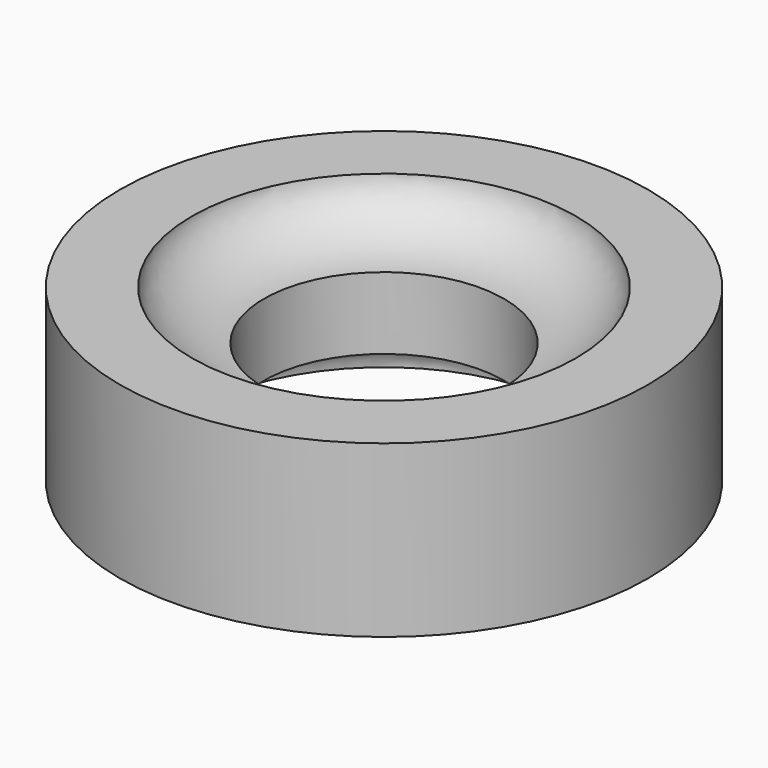
from build123d import *


with BuildPart() as f1:
    # F0 (on Front) → F1 (revolve)
    with BuildSketch(Plane.XZ):
        with BuildLine():
            add(Edge.make_bspline(
                [(5, 1.5), (6.538249, 1.5), (8, 2.67771), (8, 3.55)],
                knots=[0, 0, 0, 0, 3.633524, 3.633524, 3.633524, 3.633524], degree=3))
            Line((5, 1.5), (5, -1.5))
            add(Edge.make_bspline(
                [(5, -1.5), (6.538249, -1.5), (8, -2.67771), (8, -3.55)],
                knots=[0, 0, 0, 0, 3.633524, 3.633524, 3.633524, 3.633524], degree=3))
            Line((8, -3.55), (11, -3.55))
            Line((11, -3.55), (11, 3.55))
            Line((11, 3.55), (8, 3.55))
        make_face()
    revolve(axis=Axis((0, 0, -0.577557), (0, 0, -1)))


solid = f1.part
